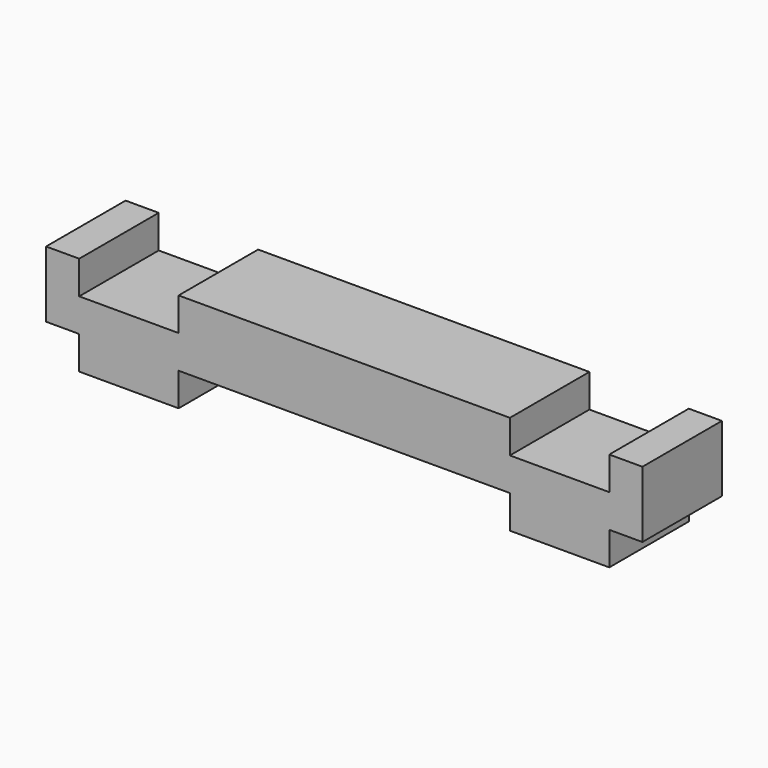
from build123d import *

# Parameters (mm, degrees)
F1_DEPTH = 19.05


with BuildPart() as f1:
    # F0 (on Front) → F1 (new body)
    with BuildSketch(Plane.XZ):
        Polygon((-31.75, 0), (0, 0), (31.75, 0), (31.75, -6.35), (50.8, -6.35), (50.8, 0), (57.15, 0), (57.15, 12.7), (50.8, 12.7), (50.8, 6.35), (31.75, 6.35), (31.75, 12.7), (0, 12.7), (-31.75, 12.7), (-31.75, 6.35), (-50.8, 6.35), (-50.8, 12.7), (-57.15, 12.7), (-57.15, 0), (-50.8, 0), (-50.8, -6.35), (-31.75, -6.35), align=None)
    extrude(amount=F1_DEPTH)


solid = f1.part
